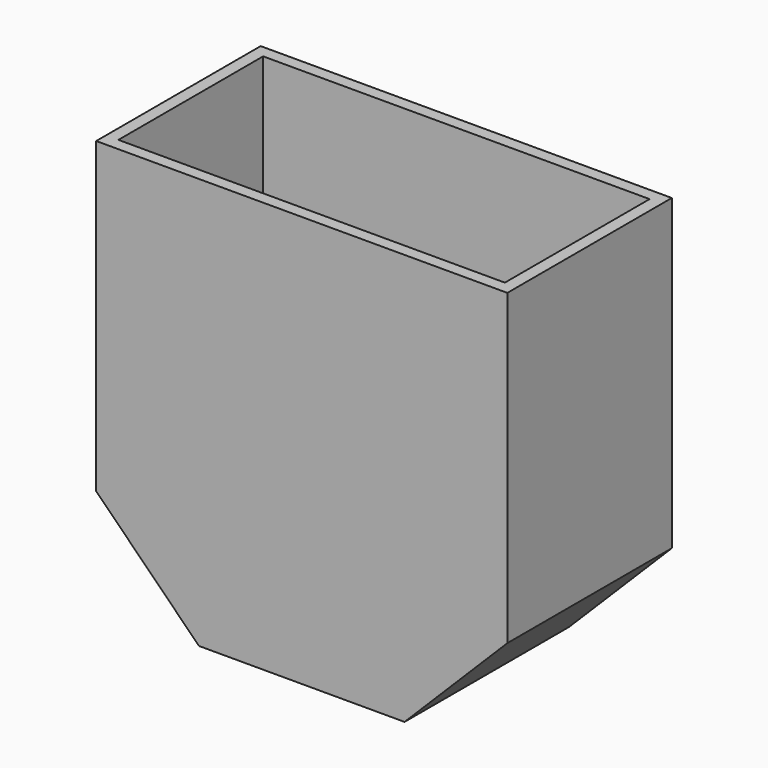
from build123d import *

# Parameters (mm, degrees)
F0_W     = 50.8
F0_H     = 50.8
F1_DEPTH = 12.7
F2_SIZE  = 12.7
F3_T     = -1.524


with BuildPart() as f1:
    # F0 (on Front) → F1 (new body, symmetric)
    with BuildSketch(Plane.XZ):
        with Locations((0, 25.4)):
            Rectangle(F0_W, F0_H)
    extrude(amount=F1_DEPTH, both=True)

    # F2
    f2_edges = [f1.edges().sort_by_distance(p)[0] for p in [
        (-25.4, 0, 0),
        (25.4, 0, 0),
    ]]
    chamfer(f2_edges, length=F2_SIZE)

    # F3
    f3_openings = [f1.faces().sort_by_distance(p)[0] for p in [
        (0, 0, 50.8),
        (0, 0, 0),
    ]]
    offset(amount=F3_T, openings=f3_openings)


solid = f1.part
